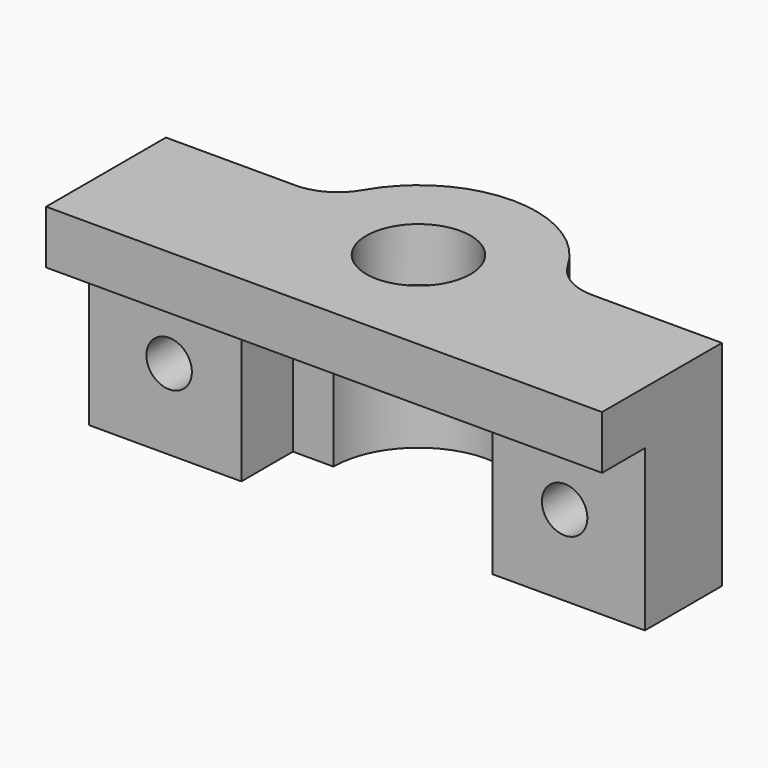
from build123d import *

# Parameters (mm, degrees)
F0_R      = 4.75
F1_DEPTH  = 7.5
F2_R      = 2.125
F3_DEPTH  = 25
F5_DEPTH  = 15.001
F7_DEPTH  = 7.5
F8_R      = 4.875
F9_DEPTH  = 5
F10_W     = 51.95911
F10_H     = 5
F11_DEPTH = 5
F12_W     = 11.8
F12_H     = 20
F13_DEPTH = 4
F14_R     = 5
F16_DEPTH = 25


with BuildPart() as f1:
    # F0 (on Top) → F1 (new body, symmetric)
    with BuildSketch(Plane.XY):
        with BuildLine():
            Line((-10.979555, -11.025), (0, -11.025))
            Line((0, -11.025), (10.979555, -11.025))
            Line((10.979555, -11.025), (10.979555, -6.025))
            Line((10.979555, -6.025), (25.979555, -6.025))
            Line((25.979555, -6.025), (25.979555, -1.025))
            Line((25.979555, -1.025), (10.979555, -1.025))
            Line((10.979555, -1.025), (10.979555, 1))
            ThreePointArc((10.979555, 1), (7.433896, 8.141733), (0, 11.025))
            ThreePointArc((0, 11.025), (-7.433896, 8.141733), (-10.979555, 1))
            Line((-10.979555, 1), (-10.979555, -1.025))
            Line((-10.979555, -1.025), (-25.979555, -1.025))
            Line((-25.979555, -1.025), (-25.979555, -6.025))
            Line((-25.979555, -6.025), (-10.979555, -6.025))
            Line((-10.979555, -6.025), (-10.979555, -11.025))
        make_face()
        Circle(F0_R, mode=Mode.SUBTRACT)
    extrude(amount=F1_DEPTH, both=True)

    # F2 (on face) → F3 (cut)
    with BuildSketch(Plane.XZ.offset(11.025)):
        with Locations((-18.479555, 0)):
            Circle(F2_R)
        with Locations((18.479555, 0)):
            Circle(F2_R)
    extrude(amount=-F3_DEPTH, mode=Mode.SUBTRACT)

    # F4 (on face) → F5 (cut, through all)
    with BuildSketch(Plane.XY.offset(7.5)):
        with BuildLine():
            Line((10.979555, -0.0125), (7.82499, -0.0125))
            ThreePointArc((7.82499, -0.0125), (0, 7.825), (-7.82499, -0.0125))
            Line((-7.82499, -0.0125), (-10.979555, -0.0125))
            Line((-10.979555, -0.0125), (-10.979555, -6.025))
            Line((-10.979555, -6.025), (-10.979555, -11.025))
            Line((-10.979555, -11.025), (10.979555, -11.025))
            Line((10.979555, -11.025), (10.979555, -6.025))
            Line((10.979555, -6.025), (10.979555, -0.0125))
        make_face()
    extrude(amount=-F5_DEPTH, mode=Mode.SUBTRACT)

    # F6 (on Top) → F7 (join, symmetric)
    with BuildSketch(Plane.XY):
        with BuildLine():
            Line((-10.979555, -1.025), (-10.979555, 1))
            ThreePointArc((-10.979555, 1), (-10.842852, 1.995794), (-10.616026, 2.975))
            Line((-10.616026, 2.975), (-14.179555, 2.975))
            Line((-14.179555, 2.975), (-14.179555, -1.025))
            Line((-14.179555, -1.025), (-10.979555, -1.025))
        make_face()
        with BuildLine():
            Line((14.179555, 2.975), (10.616026, 2.975))
            ThreePointArc((10.616026, 2.975), (10.842852, 1.995794), (10.979555, 1))
            Line((10.979555, 1), (10.979555, -1.025))
            Line((10.979555, -1.025), (14.179555, -1.025))
            Line((14.179555, -1.025), (14.179555, 2.975))
        make_face()
    extrude(amount=F7_DEPTH, both=True)

    # F8 (on face) → F9 (join)
    with BuildSketch(Plane.XY.offset(7.5)):
        with BuildLine():
            Line((-25.979555, -6.025), (-10.979555, -6.025))
            Line((-10.979555, -6.025), (10.979555, -6.025))
            Line((10.979555, -6.025), (25.979555, -6.025))
            Line((25.979555, -6.025), (25.979555, -1.025))
            Line((25.979555, -1.025), (14.179555, -1.025))
            Line((14.179555, -1.025), (14.179555, 2.975))
            Line((14.179555, 2.975), (10.616026, 2.975))
            ThreePointArc((10.616026, 2.975), (0, 11.025), (-10.616026, 2.975))
            Line((-10.616026, 2.975), (-14.179555, 2.975))
            Line((-14.179555, 2.975), (-14.179555, -1.025))
            Line((-14.179555, -1.025), (-25.979555, -1.025))
            Line((-25.979555, -1.025), (-25.979555, -6.025))
        make_face()
        Circle(F8_R, mode=Mode.SUBTRACT)
    extrude(amount=F9_DEPTH)

    # F10 (on face) → F11 (join)
    with BuildSketch(Plane.XZ.offset(6.025)):
        with Locations((0, 10)):
            Rectangle(F10_W, F10_H)
    extrude(amount=F11_DEPTH)

    # F12 (on face) → F13 (join)
    with BuildSketch(Plane(origin=(0, -1.025, 0), x_dir=(-1, 0, 0), z_dir=(0, 1, 0))):
        with Locations((-20.079555, 2.5)):
            Rectangle(F12_W, F12_H)
        Polygon((-18.479555, 3.377499), (-15.554555, 1.68875), (-15.554555, -1.68875), (-18.479555, -3.377499), (-21.404555, -1.68875), (-21.404555, 1.68875), align=None, mode=Mode.SUBTRACT)
        with Locations((20.079555, 2.5)):
            Rectangle(F12_W, F12_H)
        Polygon((15.554555, 1.68875), (18.479555, 3.377499), (21.404555, 1.68875), (21.404555, -1.68875), (18.479555, -3.377499), (15.554555, -1.68875), align=None, mode=Mode.SUBTRACT)
    extrude(amount=F13_DEPTH)

    # F14
    f14_edges = [f1.edges().sort_by_distance(p)[0] for p in [
        (6.661503, 8.78493, 0),
        (10.616026, 2.975, 10),
        (-6.661503, 8.78493, 0),
        (-10.616026, 2.975, 10),
    ]]
    fillet(f14_edges, radius=F14_R)

    # F15 (on face) → F16 (cut)
    with BuildSketch(Plane(origin=(0, 0, 7.5), x_dir=(1, 0, 0), z_dir=(0, 0, -1))):
        with BuildLine():
            Line((11.729555, 6.025), (-11.729555, 6.025))
            Line((-11.729555, 6.025), (-11.729555, 0))
            Line((-11.729555, 0), (-7.95, 0))
            ThreePointArc((-7.95, 0), (0, -7.95), (7.95, 0))
            Line((7.95, 0), (11.729555, 0))
            Line((11.729555, 0), (11.729555, 6.025))
        make_face()
    extrude(amount=F16_DEPTH, mode=Mode.SUBTRACT)


solid = f1.part
